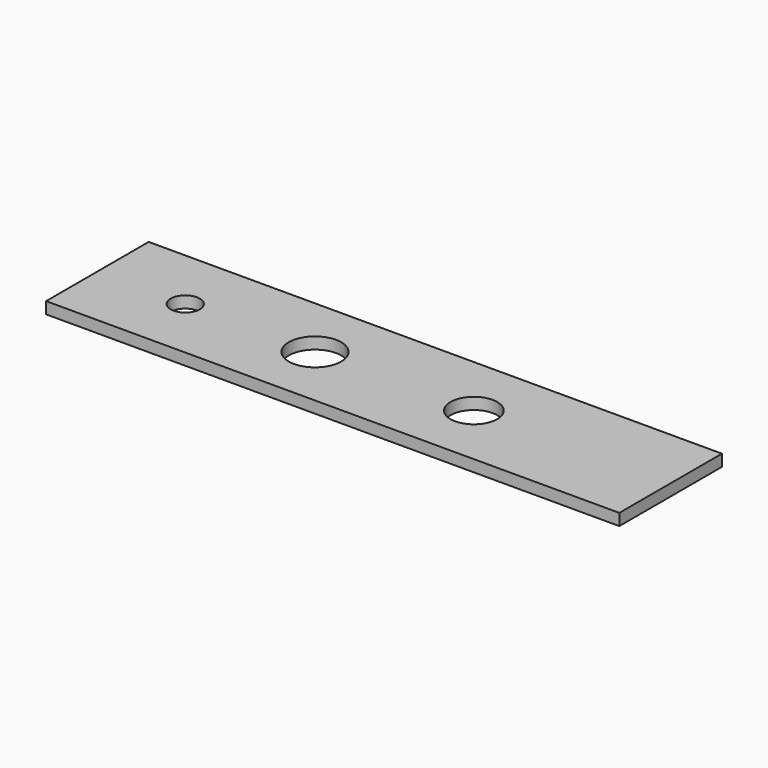
from build123d import *

# Parameters (mm, degrees)
F1_W     = 98.332082
F1_H     = 22
F1_R     = 4.5
F1_R_2   = 4
F2_DEPTH = 2
F3_R     = 2.5
F4_DEPTH = 25


with BuildPart() as f2:
    # F1 (on face) → F2 (new body)
    with BuildSketch(Plane.XY):
        with Locations((0.833959, 0)):
            Rectangle(F1_W, F1_H)
        with Locations((-11.0046, 0)):
            Circle(F1_R, mode=Mode.SUBTRACT)
        with Locations((16.2454, 0)):
            Circle(F1_R_2, mode=Mode.SUBTRACT)
    extrude(amount=F2_DEPTH)

    # F3 (on face) → F4 (cut)
    with BuildSketch(Plane.XY.offset(2)):
        with Locations((-33.2546, 0)):
            Circle(F3_R)
    extrude(amount=-F4_DEPTH, mode=Mode.SUBTRACT)


solid = f2.part
